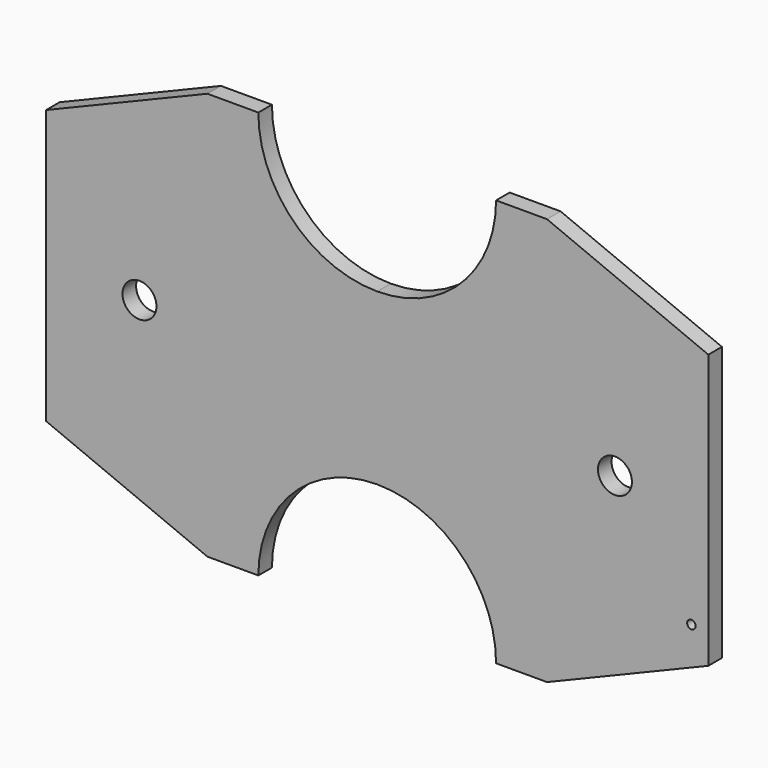
from build123d import *

# Parameters (mm, degrees)
F0_R     = 0.79375
F0_R_2   = 3.175
F1_DEPTH = 3.175


with BuildPart() as f1:
    # F0 (on Front) → F1 (new body)
    with BuildSketch(Plane.XZ):
        with BuildLine():
            Line((-22.225, 38.1), (-31.75, 38.1))
            Line((-31.75, 38.1), (-61.9125, 25.606283))
            Line((-61.9125, 25.606283), (-61.9125, -25.606283))
            Line((-61.9125, -25.606283), (-31.75, -38.1))
            Line((-31.75, -38.1), (-22.225, -38.1))
            ThreePointArc((-22.225, -38.1), (-15.715448, -22.384552), (0, -15.875))
            ThreePointArc((0, -15.875), (15.715448, -22.384552), (22.225, -38.1))
            Line((22.225, -38.1), (31.75, -38.1))
            Line((31.75, -38.1), (61.9125, -25.606283))
            Line((61.9125, -25.606283), (61.9125, 25.606283))
            Line((61.9125, 25.606283), (31.75, 38.1))
            Line((31.75, 38.1), (22.225, 38.1))
            ThreePointArc((22.225, 38.1), (15.715448, 22.384552), (0, 15.875))
            ThreePointArc((0, 15.875), (-15.715448, 22.384552), (-22.225, 38.1))
        make_face()
        with Locations((58.7375, -19.84375)):
            Circle(F0_R, mode=Mode.SUBTRACT)
        with Locations((-44.45, 0)):
            Circle(F0_R_2, mode=Mode.SUBTRACT)
        with Locations((44.45, 0)):
            Circle(F0_R_2, mode=Mode.SUBTRACT)
    extrude(amount=F1_DEPTH)


solid = f1.part
